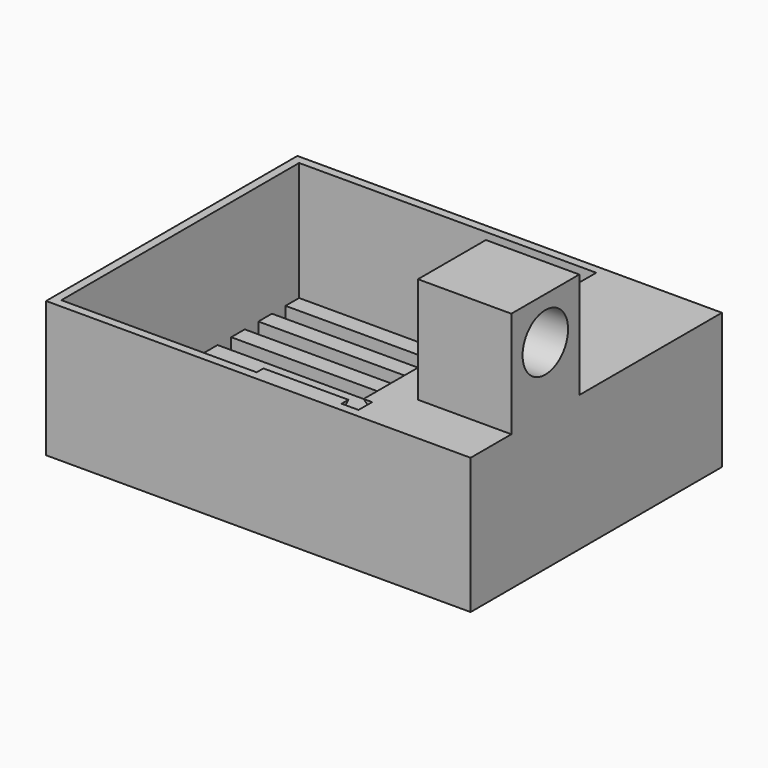
from build123d import *

# Parameters (mm, degrees)
BOX_W             = 50
BOX_H             = 37
BOX_DEPTH         = 16
BOX001_W          = 35
BOX001_H          = 35
BOX001_DEPTH      = 20
BOX002_W          = 11
BOX002_H          = 10
BOX002_DEPTH      = 12.5
CYLINDER_R        = 3.35
CYLINDER_DEPTH    = 22
SKETCH_W          = 2
SKETCH_H          = 36
POCKET_DEPTH      = 5
CYLINDER001_R     = 3.35
CYLINDER001_DEPTH = 1
CYLINDER002_R     = 2.8
CYLINDER002_DEPTH = 1
PAD_DEPTH         = 10
PAD001_DEPTH      = 10


with BuildPart() as part:
    # Box → Box (join)
    with BuildSketch(Plane.XY):
        with Locations((25, 18.5)):
            Rectangle(BOX_W, BOX_H)
    extrude(amount=BOX_DEPTH)

    # Box001 → Box001 (cut)
    with BuildSketch(Plane(origin=(1, 1, 2), x_dir=(1, 0, 0), z_dir=(0, 0, 1))):
        with Locations((17.5, 17.5)):
            Rectangle(BOX001_W, BOX001_H)
    extrude(amount=BOX001_DEPTH, mode=Mode.SUBTRACT)

    # Box002 → Box002 (join)
    with BuildSketch(Plane(origin=(39, 6, 16), x_dir=(1, 0, 0), z_dir=(0, 0, 1))):
        with Locations((5.5, 5)):
            Rectangle(BOX002_W, BOX002_H)
    extrude(amount=BOX002_DEPTH)

    # Cylinder → Cylinder (cut)
    with BuildSketch(Plane(origin=(28, 11, 23.5), x_dir=(0, 1, 0), z_dir=(1, 0, 0))):
        Circle(CYLINDER_R)
    extrude(amount=CYLINDER_DEPTH, mode=Mode.SUBTRACT)

    # Sketch (on Sketch) → Pocket (cut)
    with BuildSketch(Plane(origin=(38, 13.1, 2), x_dir=(0, -1, 0), z_dir=(0, 0, 1))):
        with Locations((-19.9, -19)):
            Rectangle(SKETCH_W, SKETCH_H)
        with Locations((-15.9, -19)):
            Rectangle(SKETCH_W, SKETCH_H)
        with Locations((-11.9, -19)):
            Rectangle(SKETCH_W, SKETCH_H)
        with Locations((-7.9, -19)):
            Rectangle(SKETCH_W, SKETCH_H)
        with Locations((-3.9, -19)):
            Rectangle(SKETCH_W, SKETCH_H)
        with Locations((0.1, -19)):
            Rectangle(SKETCH_W, SKETCH_H)
        with Locations((4.1, -19)):
            Rectangle(SKETCH_W, SKETCH_H)
        with Locations((8.1, -19)):
            Rectangle(SKETCH_W, SKETCH_H)
    extrude(amount=-POCKET_DEPTH, mode=Mode.SUBTRACT)

    # Cylinder001 → Cylinder001 (join)
    with BuildSketch(Plane(origin=(39, 11, 23.5), x_dir=(0, -1, 0), z_dir=(1, 0, 0))):
        Circle(CYLINDER001_R)
    extrude(amount=CYLINDER001_DEPTH)

    # Cylinder002 → Cylinder002 (cut)
    with BuildSketch(Plane(origin=(40, 11, 23.5), x_dir=(0, 1, 0), z_dir=(-1, 0, 0))):
        Circle(CYLINDER002_R)
    extrude(amount=CYLINDER002_DEPTH, mode=Mode.SUBTRACT)

    # Sketch002 (on Face11 of Cylinder002) → Pad (join)
    with BuildSketch(Plane(origin=(34, 11, 23.5), x_dir=(0, 1, 0), z_dir=(-1, 0, 0))):
        Polygon((-10, 7.5), (-9, 7.5), (-10, 8.5), align=None)
    extrude(amount=PAD_DEPTH)

    # Sketch003 (on Face10 of Pad) → Pad001 (join)
    with BuildSketch(Plane(origin=(40, 3, 23.5), x_dir=(0, 0, -1), z_dir=(0, 1, 0))):
        Polygon((7.5, 4), (7.5, 5), (8.5, 4), align=None)
    extrude(amount=PAD001_DEPTH)


solid = part.part
